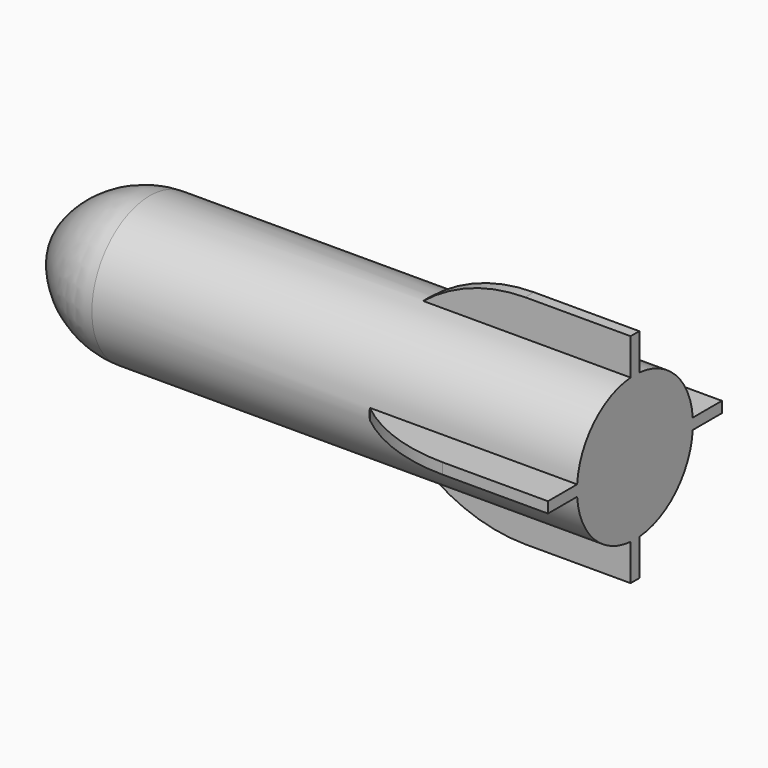
from build123d import *

# Parameters (mm, degrees)
F3_DEPTH  = 57.2
F5_DEPTH  = 31.501
F7_DEPTH  = 25
F9_DEPTH  = 25
F11_DEPTH = 25


with BuildPart() as f1:
    # F0 (on Front) → F1 (revolve)
    with BuildSketch(Plane.XZ):
        with BuildLine():
            ThreePointArc((26.1487911932, 20), (9.8893186174, 14.1642956432), (0, 0))
            Line((0, 0), (160, 0))
            Line((160, 0), (160, 20))
            Line((160, 20), (28.2113384455, 20))
            Line((28.2113384455, 20), (26.1487911932, 20))
        make_face()
    revolve(axis=Axis((80, 0, 0), (1, 0, 0)))

    # F2 (on face) → F3 (join)
    with BuildSketch(Plane.YZ.offset(160)):
        with BuildLine():
            Line((-1.5, 30), (-1.5, 19.9436706752))
            ThreePointArc((-1.5, 19.9436706752), (0, 20), (1.5, 19.9436706752))
            Line((1.5, 19.9436706752), (1.5, 30))
            Line((1.5, 30), (-1.5, 30))
        make_face()
        with BuildLine():
            Line((30, 1.5), (19.9436706752, 1.5))
            ThreePointArc((19.9436706752, 1.5), (19.9859127075, 0.7505286458), (20, 0))
            ThreePointArc((20, 0), (19.9859127075, -0.7505286458), (19.9436706752, -1.5))
            Line((19.9436706752, -1.5), (30, -1.5))
            Line((30, -1.5), (30, 1.5))
        make_face()
        with BuildLine():
            ThreePointArc((1.5, -19.9436706752), (0, -20), (-1.5, -19.9436706752))
            Line((-1.5, -19.9436706752), (-1.5, -30))
            Line((-1.5, -30), (1.5, -30))
            Line((1.5, -30), (1.5, -19.9436706752))
        make_face()
        with BuildLine():
            Line((-19.9436706752, 1.5), (-30, 1.5))
            Line((-30, 1.5), (-30, -1.5))
            Line((-30, -1.5), (-19.9436706752, -1.5))
            ThreePointArc((-19.9436706752, -1.5), (-20, 0), (-19.9436706752, 1.5))
        make_face()
    extrude(amount=-F3_DEPTH)

    # F4 (on face) → F5 (cut, through all)
    with BuildSketch(Plane(origin=(0, 1.5, 0), x_dir=(-1, 0, 0), z_dir=(0, 1, 0))):
        with BuildLine():
            Line((-102.8, 19.9436706752), (-102.8, 30))
            Line((-102.8, 30), (-130.9093156687, 30))
            ThreePointArc((-130.9093156687, 30), (-115.9964112381, 27.3707946115), (-102.8, 19.9436706752))
        make_face()
    extrude(amount=-F5_DEPTH, mode=Mode.SUBTRACT)

    # F6 (on face) → F7 (cut)
    with BuildSketch(Plane(origin=(0, 1.5, 0), x_dir=(-1, 0, 0), z_dir=(0, 1, 0))):
        with BuildLine():
            Line((-130.9093156687, -30), (-102.8, -30))
            Line((-102.8, -30), (-102.8, -19.9436706752))
            ThreePointArc((-102.8, -19.9436706752), (-115.9964112381, -27.3707946115), (-130.9093156687, -30))
        make_face()
    extrude(amount=-F7_DEPTH, mode=Mode.SUBTRACT)

    # F8 (on face) → F9 (cut)
    with BuildSketch(Plane(origin=(0, 0, -1.5), x_dir=(1, 0, 0), z_dir=(0, 0, -1))):
        with BuildLine():
            Line((102.8, -19.9436706752), (102.8, -30))
            Line((102.8, -30), (130.9093156687, -30))
            ThreePointArc((130.9093156687, -30), (115.9964112381, -27.3707946115), (102.8, -19.9436706752))
        make_face()
    extrude(amount=-F9_DEPTH, mode=Mode.SUBTRACT)

    # F10 (on face) → F11 (cut)
    with BuildSketch(Plane(origin=(0, 0, -1.5), x_dir=(1, 0, 0), z_dir=(0, 0, -1))):
        with BuildLine():
            Line((130.9093156687, 30), (102.8, 30))
            Line((102.8, 30), (102.8, 19.9436706752))
            ThreePointArc((102.8, 19.9436706752), (115.9964112381, 27.3707946115), (130.9093156687, 30))
        make_face()
    extrude(amount=-F11_DEPTH, mode=Mode.SUBTRACT)


solid = f1.part
